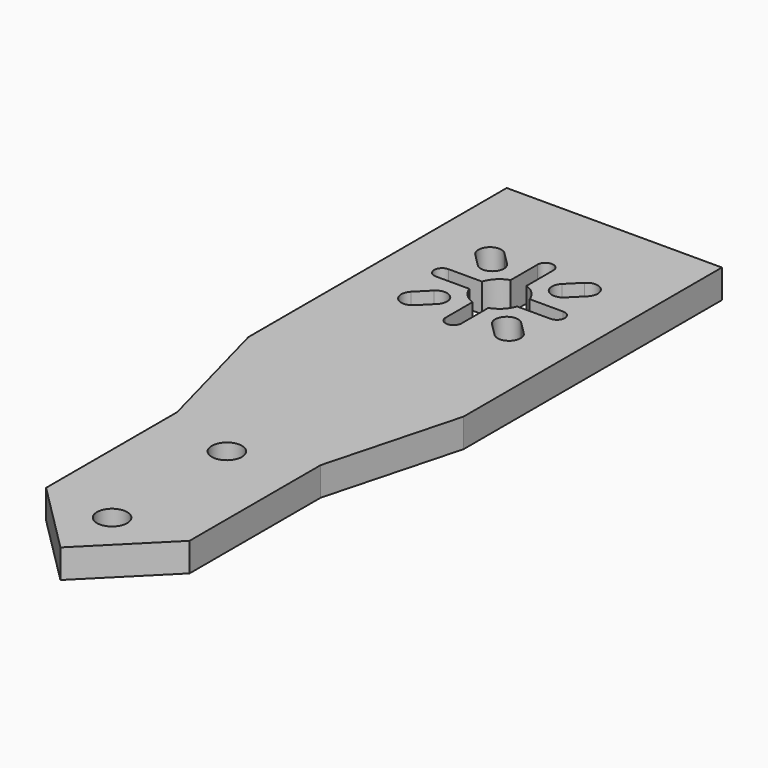
from build123d import *

# Parameters (mm, degrees)
F0_R     = 2.1
F1_DEPTH = 4


with BuildPart() as f1:
    # F0 (on Top) → F1 (new body)
    with BuildSketch(Plane.XY):
        Polygon((-15, 52.5), (-10, 33.839746), (-10, 11), (0, 1), (10, 11), (10, 33.839746), (15, 52.5), (15, 97.5), (-15, 97.5), align=None)
        with Locations((0, 10)):
            Circle(F0_R, mode=Mode.SUBTRACT)
        with Locations((0, 30)):
            Circle(F0_R, mode=Mode.SUBTRACT)
        with BuildLine():
            ThreePointArc((-5.586144, 69.651115), (-7.848885, 69.651115), (-7.848885, 71.913856))
            Line((-7.848885, 71.913856), (-6.081118, 73.681623))
            ThreePointArc((-6.081118, 73.681623), (-3.818377, 73.681623), (-3.818377, 71.418882))
            Line((-3.818377, 71.418882), (-5.586144, 69.651115))
        make_face(mode=Mode.SUBTRACT)
        with BuildLine():
            ThreePointArc((-7.848885, 83.086144), (-7.848885, 85.348885), (-5.586144, 85.348885))
            Line((-5.586144, 85.348885), (-3.818377, 83.581118))
            ThreePointArc((-3.818377, 83.581118), (-3.818377, 81.318377), (-6.081118, 81.318377))
            Line((-6.081118, 81.318377), (-7.848885, 83.086144))
        make_face(mode=Mode.SUBTRACT)
        with BuildLine():
            ThreePointArc((7.848885, 71.913856), (7.848885, 69.651115), (5.586144, 69.651115))
            Line((5.586144, 69.651115), (3.818377, 71.418882))
            ThreePointArc((3.818377, 71.418882), (3.818377, 73.681623), (6.081118, 73.681623))
            Line((6.081118, 73.681623), (7.848885, 71.913856))
        make_face(mode=Mode.SUBTRACT)
        with BuildLine():
            ThreePointArc((-3.32265, 78.6), (-2.474874, 79.974874), (-1.1, 80.82265))
            Line((-1.1, 80.82265), (-1.1, 85.5))
            ThreePointArc((-1.1, 85.5), (0, 86.6), (1.1, 85.5))
            Line((1.1, 85.5), (1.1, 80.82265))
            ThreePointArc((1.1, 80.82265), (2.474874, 79.974874), (3.32265, 78.6))
            Line((3.32265, 78.6), (8, 78.6))
            ThreePointArc((8, 78.6), (9.1, 77.5), (8, 76.4))
            Line((8, 76.4), (3.32265, 76.4))
            ThreePointArc((3.32265, 76.4), (2.474874, 75.025126), (1.1, 74.17735))
            Line((1.1, 74.17735), (1.1, 69.5))
            ThreePointArc((1.1, 69.5), (0, 68.4), (-1.1, 69.5))
            Line((-1.1, 69.5), (-1.1, 74.17735))
            ThreePointArc((-1.1, 74.17735), (-2.474874, 75.025126), (-3.32265, 76.4))
            Line((-3.32265, 76.4), (-8, 76.4))
            ThreePointArc((-8, 76.4), (-9.1, 77.5), (-8, 78.6))
            Line((-8, 78.6), (-3.32265, 78.6))
        make_face(mode=Mode.SUBTRACT)
        with BuildLine():
            ThreePointArc((5.586144, 85.348885), (7.848885, 85.348885), (7.848885, 83.086144))
            Line((7.848885, 83.086144), (6.081118, 81.318377))
            ThreePointArc((6.081118, 81.318377), (3.818377, 81.318377), (3.818377, 83.581118))
            Line((3.818377, 83.581118), (5.586144, 85.348885))
        make_face(mode=Mode.SUBTRACT)
    extrude(amount=F1_DEPTH)


solid = f1.part
